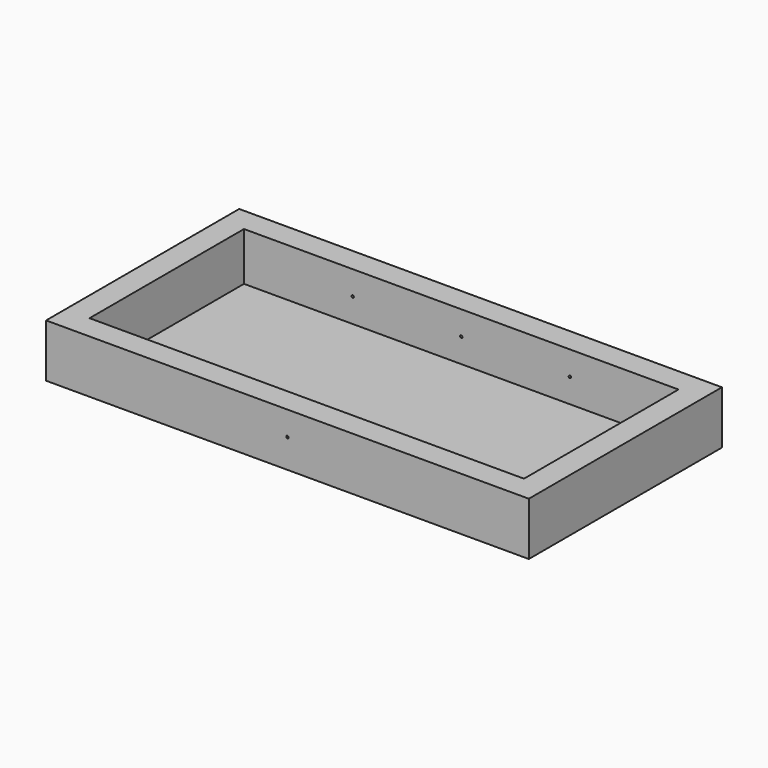
from build123d import *

# Parameters (mm, degrees)
F0_W      = 1000
F0_H      = 500
F1_DEPTH  = 110
F2_W      = 900
F2_H      = 400
F3_DEPTH  = 100
F5_DEPTH  = 50
F6_R      = 2.5
F7_DEPTH  = 50
F8_R      = 2.5
F9_DEPTH  = 25
F10_DEPTH = 25
F11_R     = 2.5
F12_DEPTH = 25


with BuildPart() as f1:
    # F0 (on Top) → F1 (new body)
    with BuildSketch(Plane.XY):
        with Locations((357.0744521916, 180.0998109607)):
            Rectangle(F0_W, F0_H)
    extrude(amount=F1_DEPTH)

    # F2 (on face) → F3 (cut)
    with BuildSketch(Plane.XY.offset(110)):
        with Locations((357.0744521916, 180.0998109607)):
            Rectangle(F2_W, F2_H)
    extrude(amount=-F3_DEPTH, mode=Mode.SUBTRACT)

    # F4 (on face) → F5 (cut)
    with BuildSketch(Plane.XZ.offset(-380.0998109607)):
        with BuildLine():
            ThreePointArc((359.5744521916, 60), (358.8422191446, 61.767766953), (357.0744521916, 62.5))
            Line((357.0744521916, 62.5), (357.0744521916, 57.5))
            ThreePointArc((357.0744521916, 57.5), (358.8422191446, 58.232233047), (359.5744521916, 60))
        make_face()
        with BuildLine():
            Line((357.0744521916, 57.5), (357.0744521916, 62.5))
            ThreePointArc((357.0744521916, 62.5), (354.5744521916, 60), (357.0744521916, 57.5))
        make_face()
    extrude(amount=-F5_DEPTH, mode=Mode.SUBTRACT)

    # F6 (on face) → F7 (cut)
    with BuildSketch(Plane(origin=(0, -19.9001890393, 0), x_dir=(-1, 0, 0), z_dir=(0, 1, 0))):
        with Locations((-357.0744521916, 60)):
            Circle(F6_R)
    extrude(amount=-F7_DEPTH, mode=Mode.SUBTRACT)

    # F8 (on face) → F9 (cut)
    with BuildSketch(Plane.XZ.offset(-380.0998109607)):
        with Locations((132.0744521916, 60)):
            Circle(F8_R)
    extrude(amount=-F9_DEPTH, mode=Mode.SUBTRACT)

    # F8 (on face) → F10 (cut)
    with BuildSketch(Plane.XZ.offset(-380.0998109607)):
        with Locations((132.0744521916, 60)):
            Circle(F8_R)
        with Locations((582.0744521916, 60)):
            Circle(F8_R)
    extrude(amount=-F10_DEPTH, mode=Mode.SUBTRACT)

    # F11 (on face) → F12 (cut)
    with BuildSketch(Plane(origin=(0, -19.9001890393, 0), x_dir=(-1, 0, 0), z_dir=(0, 1, 0))):
        with Locations((-132.0744521916, 60)):
            Circle(F11_R)
        with Locations((-582.0744521916, 60)):
            Circle(F11_R)
    extrude(amount=-F12_DEPTH, mode=Mode.SUBTRACT)


solid = f1.part
